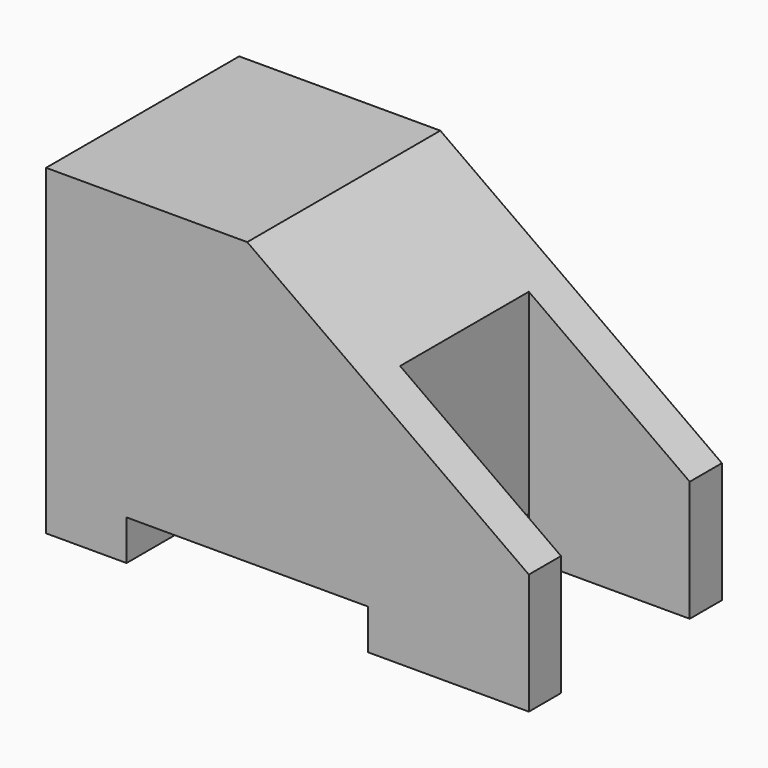
from build123d import *

# Parameters (mm, degrees)
F1_DEPTH = 15
F2_W     = 20
F2_H     = 10
F3_DEPTH = 15.6428571429


with BuildPart() as f1:
    # F0 (on Front) → F1 (new body)
    with BuildSketch(Plane.XZ):
        Polygon((0, 20), (0, 0), (5, 0), (5, 2.5), (20, 2.5), (20, 0), (30, 0), (30, 7.5), (12.5, 20), align=None)
    extrude(amount=-F1_DEPTH)

    # F2 (on face) → F3 (cut, up to face)
    with BuildSketch(Plane(origin=(0, 0, 0), x_dir=(1, 0, 0), z_dir=(0, 0, -1))):
        with Locations((30, -7.5)):
            Rectangle(F2_W, F2_H)
    extrude(amount=-F3_DEPTH, mode=Mode.SUBTRACT)


solid = f1.part
